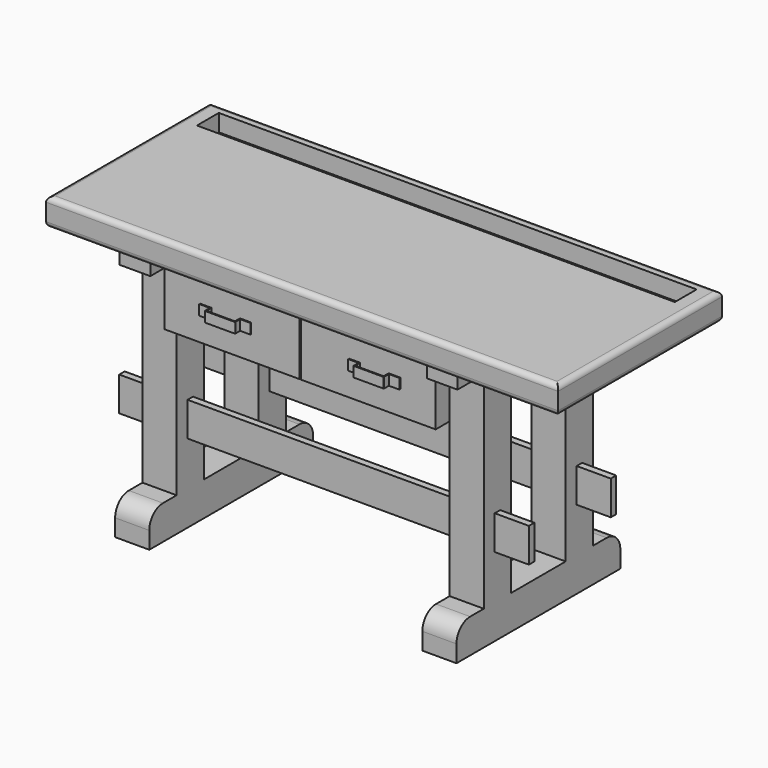
from build123d import *

# Parameters (mm, degrees)
F0_W      = 100
F0_H      = 600
F1_DEPTH  = 100
F2_W      = 100
F2_H      = 100
F3_DEPTH  = 600
F5_W      = 20
F5_H      = 100
F6_DEPTH  = 1200
F7_R      = 50
F7_2_R    = 50
F8_W      = 90
F8_H      = 580
F9_DEPTH  = 35
F8_H_2    = 90
F8_W_2    = 5
F8_H_3    = 100
F8_H_4    = 390
F10_W     = 1500
F10_H     = 600
F10_W_2   = 90
F10_H_2   = 580
F11_DEPTH = 80
F12_R     = 15
F14_W     = 1400
F14_H     = 80
F15_DEPTH = 50
F17_W     = 395
F17_H     = 180
F18_DEPTH = 12
F20_DEPTH = 400
F21_W     = 341
F21_H     = 168
F22_DEPTH = 12
F25_DEPTH = 30


with BuildPart() as f1:
    # F0 (on Top) → F1 (new body)
    with BuildSketch(Plane.XY):
        with Locations((50, 300)):
            Rectangle(F0_W, F0_H)
    extrude(amount=F1_DEPTH)

    # F7
    f7_edges = [f1.edges().sort_by_distance(p)[0] for p in [
        (50, 600, 100),
        (50, 0, 100),
    ]]
    fillet(f7_edges, radius=F7_R)


with BuildPart() as f1b:
    # F0 (on Top) → F1, piece 2 (new body)
    with BuildSketch(Plane.XY):
        with Locations((950, 300)):
            Rectangle(F0_W, F0_H)
    extrude(amount=F1_DEPTH)

    # F7#2
    f7_2_edges = [f1b.edges().sort_by_distance(p)[0] for p in [
        (950, 0, 100),
        (950, 600, 100),
    ]]
    fillet(f7_2_edges, radius=F7_2_R)


with BuildPart() as f3:
    # F2 (on face) → F3 (new body)
    with BuildSketch(Plane.XY.offset(100)):
        with Locations((50, 450)):
            Rectangle(F2_W, F2_H)
    extrude(amount=F3_DEPTH)


with BuildPart() as f3b:
    # F2 (on face) → F3, piece 2 (new body)
    with BuildSketch(Plane.XY.offset(100)):
        with Locations((950, 450)):
            Rectangle(F2_W, F2_H)
    extrude(amount=F3_DEPTH)


with BuildPart() as f3c:
    # F2 (on face) → F3, piece 3 (new body)
    with BuildSketch(Plane.XY.offset(100)):
        with Locations((950, 150)):
            Rectangle(F2_W, F2_H)
    extrude(amount=F3_DEPTH)


with BuildPart() as f3d:
    # F2 (on face) → F3, piece 4 (new body)
    with BuildSketch(Plane.XY.offset(100)):
        with Locations((50, 150)):
            Rectangle(F2_W, F2_H)
    extrude(amount=F3_DEPTH)


with BuildPart() as f6:
    # F5 (on offset) → F6 (new body)
    with BuildSketch(Plane.YZ.offset(-100)):
        with Locations((450, 280)):
            Rectangle(F5_W, F5_H)
    extrude(amount=F6_DEPTH)


with BuildPart() as f6b:
    # F5 (on offset) → F6, piece 2 (new body)
    with BuildSketch(Plane.YZ.offset(-100)):
        with Locations((150, 280)):
            Rectangle(F5_W, F5_H)
    extrude(amount=F6_DEPTH)


with BuildPart() as f9:
    # F8 (on face) → F9 (new body)
    with BuildSketch(Plane.XY.offset(700)):
        with Locations((950, 300)):
            Rectangle(F8_W, F8_H)
    extrude(amount=F9_DEPTH)


with BuildPart() as f9b:
    # F8 (on face) → F9, piece 2 (new body)
    with BuildSketch(Plane.XY.offset(700)):
        with Locations((50, 545)):
            Rectangle(F8_W, F8_H_2)
        with Locations((2.5, 450)):
            Rectangle(F8_W_2, F8_H_3)
        with Locations((50, 450)):
            Rectangle(F8_W, F8_H_3)
        with Locations((97.5, 450)):
            Rectangle(F8_W_2, F8_H_3)
        with Locations((50, 205)):
            Rectangle(F8_W, F8_H_4)
    extrude(amount=F9_DEPTH)


with BuildPart() as f11:
    # F10 (on face) → F11 (new body)
    with BuildSketch(Plane.XY.offset(735)):
        with Locations((550, 297.044474259)):
            Rectangle(F10_W, F10_H)
        with Locations((950, 300)):
            Rectangle(F10_W_2, F10_H_2, mode=Mode.SUBTRACT)
        with Locations((950, 300)):
            Rectangle(F10_W_2, F10_H_2)
    extrude(amount=F11_DEPTH)

    # F12
    f12_edges = [f11.edges().sort_by_distance(p)[0] for p in [
        (1300, 297.044474, 815),
        (550, 597.044474, 815),
        (-200, 297.044474, 815),
        (550, -2.955526, 815),
        (1300, 297.044474, 735),
        (550, 597.044474, 735),
        (-200, 297.044474, 735),
        (550, -2.955526, 735),
    ]]
    fillet(f12_edges, radius=F12_R)


with BuildPart() as f1_1:
    add(f1.part)

    # F13: union F1b, F3, F3d, F3c, F3b, F6b, F6, F9b, F9, F11
    add(f1b.part)
    add(f3.part)
    add(f3d.part)
    add(f3c.part)
    add(f3b.part)
    add(f6b.part)
    add(f6.part)
    add(f9b.part)
    add(f9.part)
    add(f11.part)

    # F14 (on face) → F15 (cut)
    with BuildSketch(Plane.XY.offset(815)):
        with Locations((550, 527.044474259)):
            Rectangle(F14_W, F14_H)
    extrude(amount=-F15_DEPTH, mode=Mode.SUBTRACT)


with BuildPart() as f18:
    # F17 (on offset) → F18 (new body)
    with BuildSketch(Plane.XZ.offset(-50)):
        with Locations((302.5, 640)):
            Rectangle(F17_W, F17_H)
    extrude(amount=-F18_DEPTH)

    # F19 (on face) → F20 (join)
    with BuildSketch(Plane(origin=(0, 62, 0), x_dir=(-1, 0, 0), z_dir=(0, 1, 0))):
        Polygon((-458, 730), (-470, 730), (-470, 562), (-470, 550), (-458, 550), (-117, 550), (-105, 550), (-105, 562), (-105, 730), (-117, 730), (-117, 562), (-458, 562), align=None)
    extrude(amount=F20_DEPTH)

    # F21 (on face) → F22 (join)
    with BuildSketch(Plane(origin=(0, 462, 0), x_dir=(-1, 0, 0), z_dir=(0, 1, 0))):
        Polygon((-458, 730), (-470, 730), (-470, 550), (-105, 550), (-105, 730), (-117, 730), (-117, 562), (-458, 562), align=None)
        with Locations((-287.5, 646)):
            Rectangle(F21_W, F21_H)
    extrude(amount=F22_DEPTH)

    # F24 (on offset) → F25 (join)
    with BuildSketch(Plane.XY.offset(650)):
        with BuildLine():
            Line((241.2038033009, 50), (208.7038033009, 50))
            Line((208.7038033009, 50), (208.7038033009, 47))
            Line((208.7038033009, 47), (238.7038033009, 47))
            ThreePointArc((238.7038033009, 47), (239.410910082, 46.7071067812), (239.7038033009, 46))
            Line((239.7038033009, 46), (239.7038033009, 29.9520255708))
            ThreePointArc((239.7038033009, 29.9520255708), (240.1431431291, 28.8913653991), (241.2038033009, 28.4520255708))
            Line((241.2038033009, 28.4520255708), (242.7038033009, 28.4520255708))
            Line((242.7038033009, 28.4520255708), (325.7038033009, 28.4520255708))
            Line((325.7038033009, 28.4520255708), (327.2038033009, 28.4520255708))
            ThreePointArc((327.2038033009, 28.4520255708), (328.2644634726, 28.8913653991), (328.7038033009, 29.9520255708))
            Line((328.7038033009, 29.9520255708), (328.7038033009, 47))
            Line((328.7038033009, 47), (358.7038033009, 47))
            Line((358.7038033009, 47), (358.7038033009, 50))
            Line((358.7038033009, 50), (328.2038033009, 50))
            Line((328.2038033009, 50), (327.2038033009, 50))
            ThreePointArc((327.2038033009, 50), (326.1431431291, 49.5606601718), (325.7038033009, 48.5))
            Line((325.7038033009, 48.5), (325.7038033009, 32.4520255708))
            ThreePointArc((325.7038033009, 32.4520255708), (325.410910082, 31.7449187897), (324.7038033009, 31.4520255708))
            Line((324.7038033009, 31.4520255708), (243.7038033009, 31.4520255708))
            ThreePointArc((243.7038033009, 31.4520255708), (242.9966965197, 31.7449187897), (242.7038033009, 32.4520255708))
            Line((242.7038033009, 32.4520255708), (242.7038033009, 48.5))
            ThreePointArc((242.7038033009, 48.5), (242.2644634726, 49.5606601718), (241.2038033009, 50))
        make_face()
    extrude(amount=-F25_DEPTH)


with BuildPart() as f27_1:
    # F27: instance of F18
    add(f18.part.mirror(Plane(origin=(502, 56, 640), x_dir=(0, 1, 0), z_dir=(1, 0, 0))))


solid = Compound([f1_1.part, f18.part, f27_1.part])
